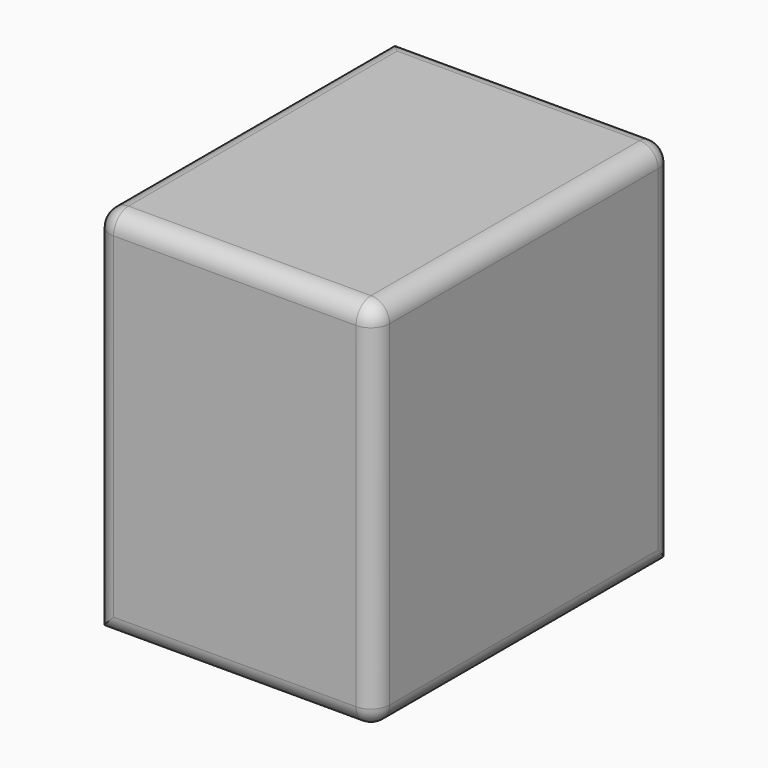
from build123d import *

# Parameters (mm, degrees)
F0_W     = 76.2
F0_H     = 101.6
F1_DEPTH = 101.6
F2_R     = 5.08
F3_R     = 29.098806
F4_DEPTH = 76.2


with BuildPart() as f1:
    # F0 (on Front) → F1 (new body)
    with BuildSketch(Plane.XZ):
        with Locations((38.1, 50.8)):
            Rectangle(F0_W, F0_H)
    extrude(amount=F1_DEPTH)

    # F2
    f2_edges = [f1.edges().sort_by_distance(p)[0] for p in [
        (38.1, -101.6, 101.6),
        (0, -50.8, 101.6),
        (76.2, -50.8, 101.6),
        (76.2, -101.6, 50.8),
        (0, -101.6, 50.8),
        (38.1, -101.6, 0),
        (76.2, -50.8, 0),
        (76.2, 0, 50.8),
        (38.1, 0, 101.6),
    ]]
    fillet(f2_edges, radius=F2_R)

    # F3 (on face) → F4 (join)
    with BuildSketch(Plane.YZ.offset(76.2)):
        with Locations((-50.803576, 51.402752)):
            Circle(F3_R)
    extrude(amount=-F4_DEPTH)


solid = f1.part
